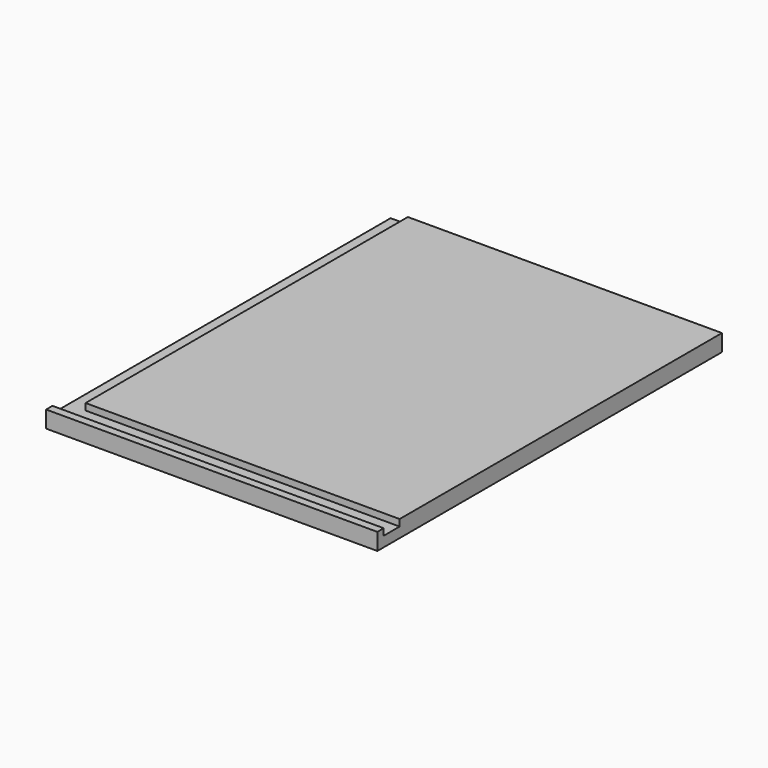
from build123d import *

# Parameters (mm, degrees)
SKETCH006_W     = 250
SKETCH006_H     = 325
PAD005_DEPTH    = 12.7
POCKET001_DEPTH = 5


with BuildPart() as roof:
    # Sketch006 → Pad005 (new body)
    with BuildSketch(Plane.XY):
        with Locations((742.936954, 526.654633)):
            Rectangle(SKETCH006_W, SKETCH006_H)
    extrude(amount=PAD005_DEPTH)

    # Sketch007 (on Face6 of Pad005) → Pocket001 (cut)
    with BuildSketch(Plane.XY.offset(12.7)):
        Polygon((854.936954, 702.879578), (854.936954, 385.154633), (607.793213, 385.154633), (607.793213, 370.154633), (885.780701, 370.154633), (885.780701, 702.879578), align=None)
    extrude(amount=-POCKET001_DEPTH, mode=Mode.SUBTRACT)


with BuildPart() as roof_mirrored:
    # Mirror001: instance of Roof
    add(roof.part.mirror(Plane(origin=(875.298889, 692.274536, 0), x_dir=(0, 1, 0), z_dir=(-1, 0, 0))))


solid = roof_mirrored.part
